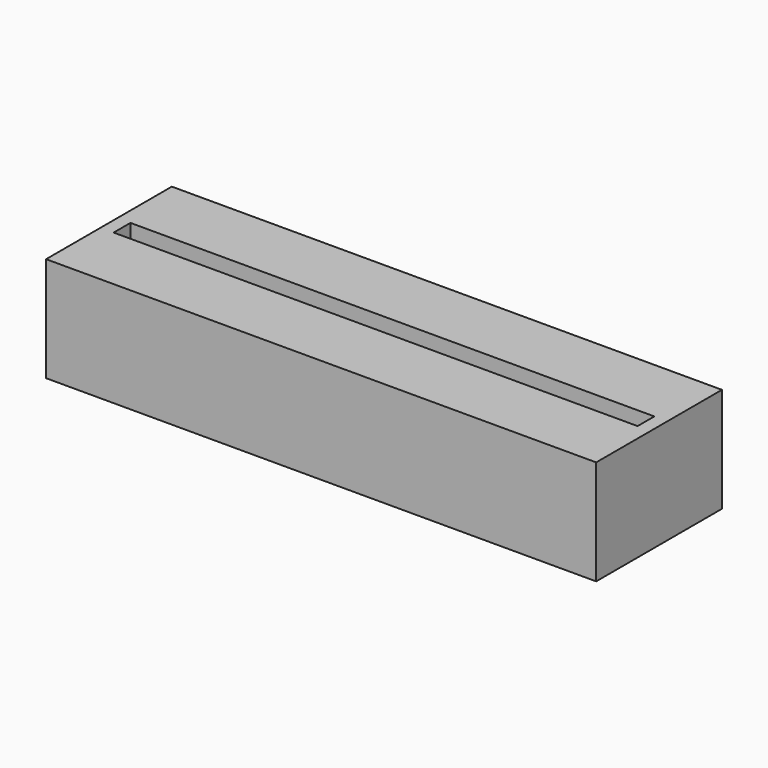
from build123d import *

# Parameters (mm, degrees)
F0_W     = 266.7
F0_H     = 50.8
F1_DEPTH = 38.1
F2_W     = 254
F2_H     = 10.16
F3_DEPTH = 48.26


with BuildPart() as f1:
    # F0 (on Front) → F1 (new body, symmetric)
    with BuildSketch(Plane.XZ):
        Rectangle(F0_W, F0_H)
    extrude(amount=F1_DEPTH, both=True)

    # F2 (on face) → F3 (cut)
    with BuildSketch(Plane.XY.offset(25.4)):
        Rectangle(F2_W, F2_H)
    extrude(amount=-F3_DEPTH, mode=Mode.SUBTRACT)


solid = f1.part
